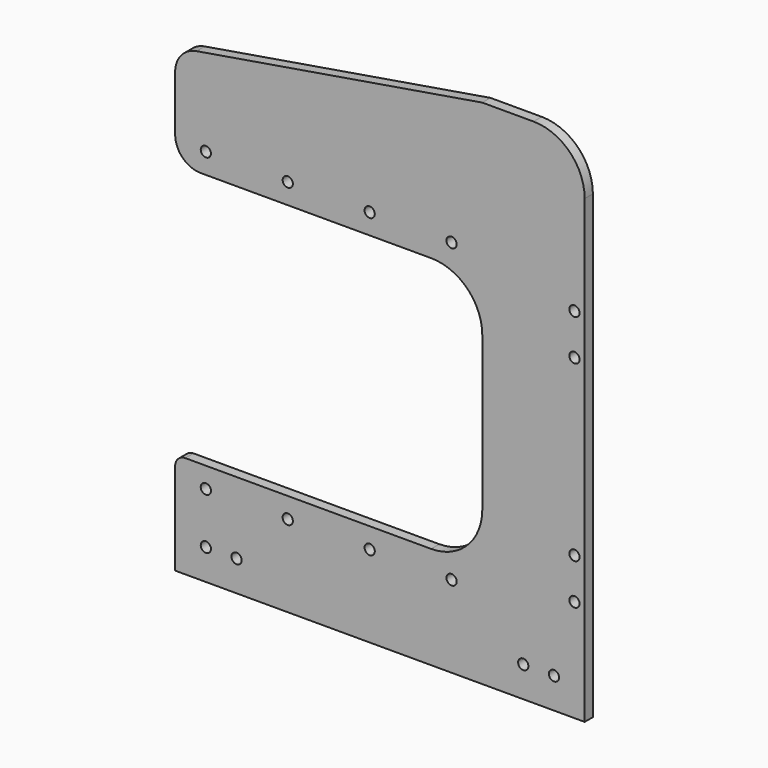
from build123d import *

# Parameters (mm, degrees)
F0_R     = 5
F1_DEPTH = 10


with BuildPart() as f1:
    # F0 (on Front) → F1 (new body)
    with BuildSketch(Plane.XZ):
        with BuildLine():
            Line((-400, 90), (-400, 0))
            Line((-400, 0), (0, 0))
            Line((0, 0), (0, 450))
            ThreePointArc((0, 450), (-14.644661, 485.355339), (-50, 500))
            Line((-50, 500), (-100, 500))
            Line((-100, 500), (-379.109975, 453.481671))
            ThreePointArc((-379.109975, 453.481671), (-394.0755, 444.981195), (-400, 428.821823))
            Line((-400, 428.821823), (-400, 375))
            ThreePointArc((-400, 375), (-392.67767, 357.32233), (-375, 350))
            Line((-375, 350), (-150, 350))
            ThreePointArc((-150, 350), (-114.644661, 335.355339), (-100, 300))
            Line((-100, 300), (-100, 150))
            ThreePointArc((-100, 150), (-114.644661, 114.644661), (-150, 100))
            Line((-150, 100), (-390, 100))
            ThreePointArc((-390, 100), (-397.071068, 97.071068), (-400, 90))
        make_face()
        with Locations((-370, 30)):
            Circle(F0_R, mode=Mode.SUBTRACT)
        with Locations((-340, 30)):
            Circle(F0_R, mode=Mode.SUBTRACT)
        with Locations((-370, 80)):
            Circle(F0_R, mode=Mode.SUBTRACT)
        with Locations((-290, 80)):
            Circle(F0_R, mode=Mode.SUBTRACT)
        with Locations((-210, 80)):
            Circle(F0_R, mode=Mode.SUBTRACT)
        with Locations((-130, 80)):
            Circle(F0_R, mode=Mode.SUBTRACT)
        with Locations((-60, 30)):
            Circle(F0_R, mode=Mode.SUBTRACT)
        with Locations((-30, 30)):
            Circle(F0_R, mode=Mode.SUBTRACT)
        with Locations((-10, 100)):
            Circle(F0_R, mode=Mode.SUBTRACT)
        with Locations((-10, 140)):
            Circle(F0_R, mode=Mode.SUBTRACT)
        with Locations((-370, 370)):
            Circle(F0_R, mode=Mode.SUBTRACT)
        with Locations((-290, 370)):
            Circle(F0_R, mode=Mode.SUBTRACT)
        with Locations((-210, 370)):
            Circle(F0_R, mode=Mode.SUBTRACT)
        with Locations((-130, 370)):
            Circle(F0_R, mode=Mode.SUBTRACT)
        with Locations((-10, 310)):
            Circle(F0_R, mode=Mode.SUBTRACT)
        with Locations((-10, 350)):
            Circle(F0_R, mode=Mode.SUBTRACT)
    extrude(amount=F1_DEPTH)


solid = f1.part
